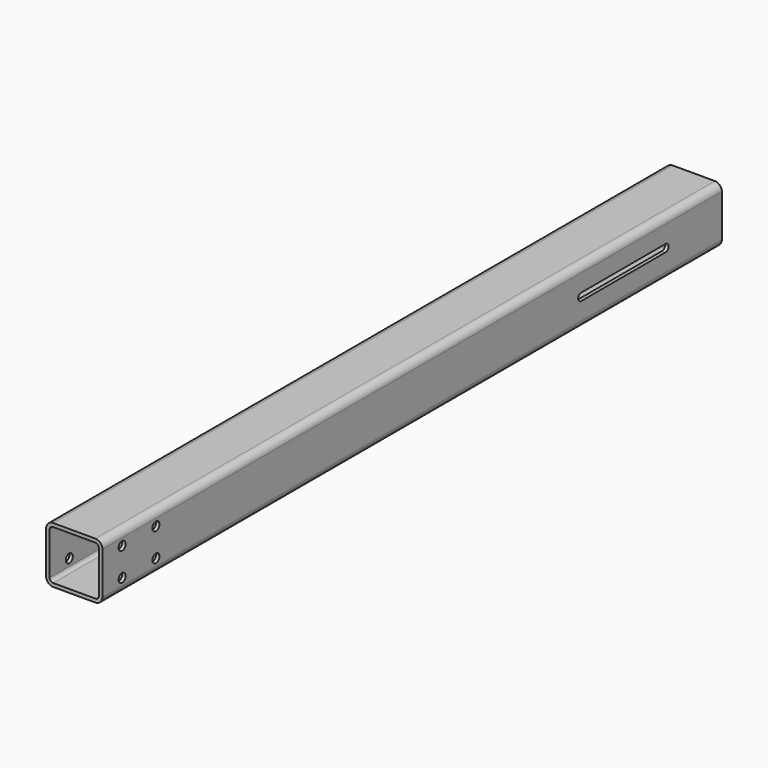
from build123d import *

# Parameters (mm, degrees)
F1_DEPTH = 550
F2_R     = 6.25
F3_DEPTH = 80.001
F5_DEPTH = 80.001


with BuildPart() as f1:
    # F0 (on Front) → F1 (new body, symmetric)
    with BuildSketch(Plane.XZ):
        with BuildLine():
            ThreePointArc((40, 30), (37.071068, 37.071068), (30, 40))
            Line((30, 40), (-30, 40))
            ThreePointArc((-30, 40), (-37.071068, 37.071068), (-40, 30))
            Line((-40, 30), (-40, -30))
            ThreePointArc((-40, -30), (-37.071068, -37.071068), (-30, -40))
            Line((-30, -40), (30, -40))
            ThreePointArc((30, -40), (37.071068, -37.071068), (40, -30))
            Line((40, -30), (40, 30))
        make_face()
        with BuildLine():
            ThreePointArc((30, 35), (33.535534, 33.535534), (35, 30))
            Line((35, 30), (35, -30))
            ThreePointArc((35, -30), (33.535534, -33.535534), (30, -35))
            Line((30, -35), (-30, -35))
            ThreePointArc((-30, -35), (-33.535534, -33.535534), (-35, -30))
            Line((-35, -30), (-35, 30))
            ThreePointArc((-35, 30), (-33.535534, 33.535534), (-30, 35))
            Line((-30, 35), (30, 35))
        make_face(mode=Mode.SUBTRACT)
    extrude(amount=F1_DEPTH, both=True)

    # F2 (on face) → F3 (cut, through all)
    with BuildSketch(Plane.YZ.offset(40)):
        with Locations((-515, 20)):
            Circle(F2_R)
        with Locations((-515, -20)):
            Circle(F2_R)
        with Locations((-455, 20)):
            Circle(F2_R)
        with Locations((-455, -20)):
            Circle(F2_R)
    extrude(amount=-F3_DEPTH, mode=Mode.SUBTRACT)

    # F4 (on face) → F5 (cut, through all)
    with BuildSketch(Plane.YZ.offset(40)):
        with BuildLine():
            ThreePointArc((450, -5.25), (455.25, 0), (450, 5.25))
            Line((450, 5.25), (300, 5.25))
            ThreePointArc((300, 5.25), (294.75, 0), (300, -5.25))
            Line((300, -5.25), (450, -5.25))
        make_face()
    extrude(amount=-F5_DEPTH, mode=Mode.SUBTRACT)


solid = f1.part
